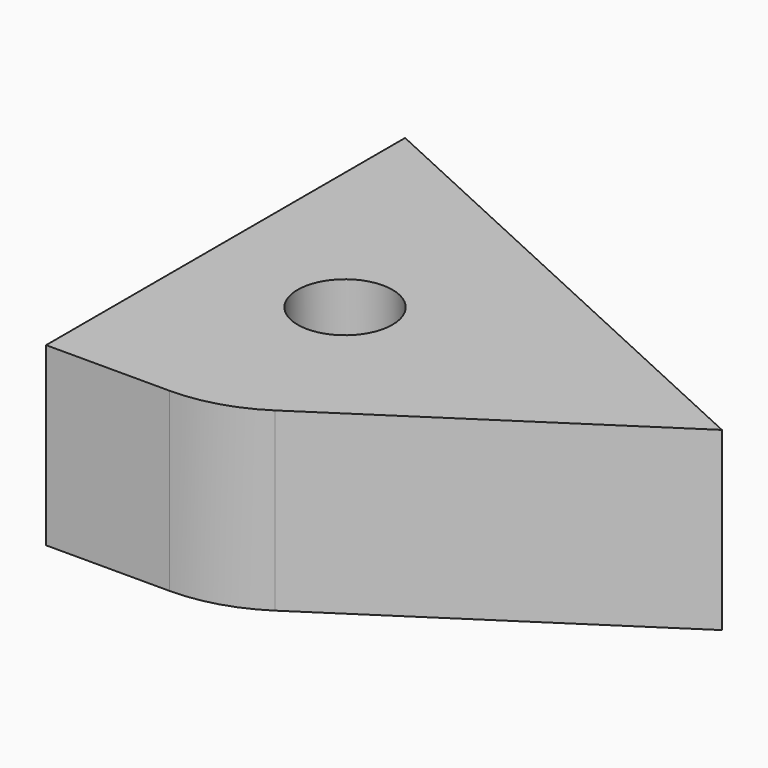
from build123d import *

# Parameters (mm, degrees)
F1_DEPTH = 39.624
F2_R     = 34.885531
F3_R     = 10.6553
F4_DEPTH = 91.186


with BuildPart() as f1:
    # F0 (on Top) → F1 (new body)
    with BuildSketch(Plane.XY):
        Polygon((0, 100.89088), (0, 0), (38.1762, 0), (112.777971, 48.952073), align=None)
    extrude(amount=F1_DEPTH)

    # F2
    f2_edges = [f1.edges().sort_by_distance(p)[0] for p in [
        (38.1762, 0, 19.812),
    ]]
    fillet(f2_edges, radius=F2_R)

    # F3 (on Top) → F4 (cut)
    with BuildSketch(Plane.XY):
        with Locations((31.988665, 44.031467)):
            Circle(F3_R)
    extrude(amount=F4_DEPTH, mode=Mode.SUBTRACT)


solid = f1.part
